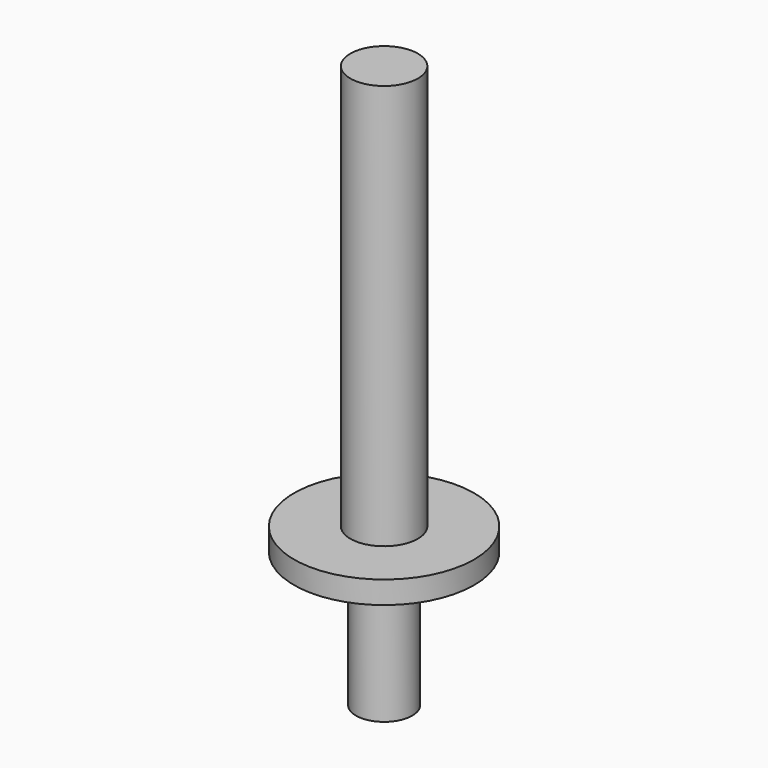
from build123d import *

# Parameters (mm, degrees)
F0_R     = 2.5
F1_DEPTH = 12
F2_R     = 8
F2_R_2   = 2.5
F3_DEPTH = 2
F4_R     = 3
F5_DEPTH = 36


with BuildPart() as f1:
    # F0 (on Top) → F1 (new body)
    with BuildSketch(Plane.XY):
        Circle(F0_R)
        Circle(F0_R)
    extrude(amount=F1_DEPTH)

    # F2 (on face) → F3 (join)
    with BuildSketch(Plane.XY.offset(12)):
        Circle(F2_R)
        Circle(F2_R_2, mode=Mode.SUBTRACT)
        Circle(F2_R)
    extrude(amount=F3_DEPTH)

    # F4 (on face) → F5 (join)
    with BuildSketch(Plane.XY.offset(14)):
        Circle(F4_R)
        Circle(F4_R)
    extrude(amount=F5_DEPTH)


solid = f1.part
